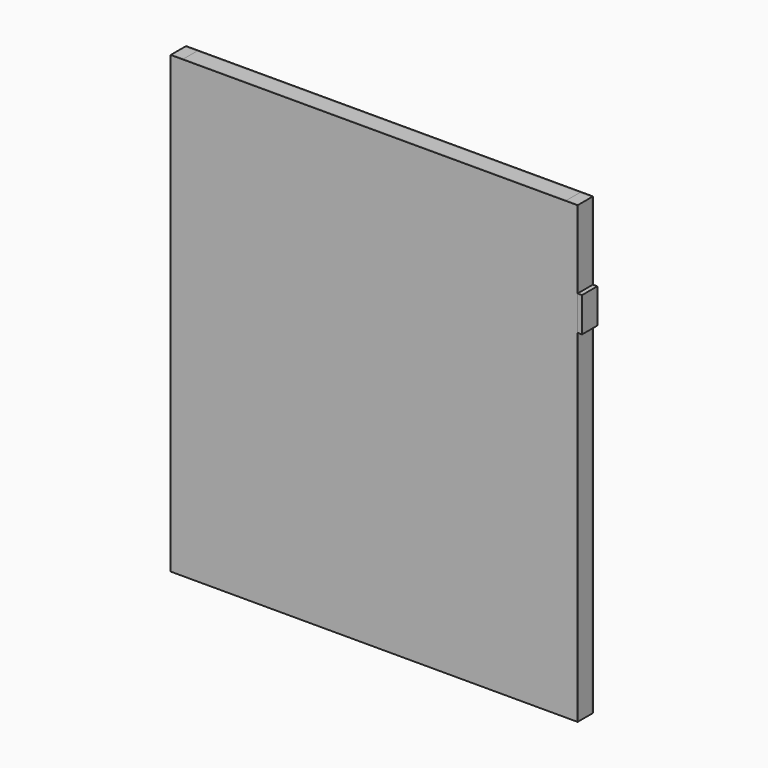
from build123d import *

# Parameters (mm, degrees)
F0_W     = 917
F0_H     = 1025
F1_DEPTH = 43.25
F2_DEPTH = 2.81
F3_DEPTH = 2.81
F4_W     = 10
F4_H     = 78
F5_DEPTH = 43
F7_DEPTH = 1025
F6_W     = 27
F6_H     = 37.63


with BuildPart() as f1:
    # F0 (on Front) → F1 (new body)
    with BuildSketch(Plane.XZ):
        Rectangle(F0_W, F0_H)
    extrude(amount=F1_DEPTH)


with BuildPart() as f2:
    # F2 (new): a face of the model
    f2_faces = [f1.part.faces().sort_by_distance(p)[0] for p in [
        (0, -43.25, 0),
    ]]
    extrude(f2_faces, amount=-F2_DEPTH)


with BuildPart() as f3:
    # F3 (new): a face of the model
    f3_faces = [f1.part.faces().sort_by_distance(p)[0] for p in [
        (0, 0, 0),
    ]]
    extrude(f3_faces, amount=-F3_DEPTH)


with BuildPart() as f5:
    # F4 (on face) → F5 (new body)
    with BuildSketch(Plane.XZ.offset(43.25)):
        with Locations((463.5, 298.5)):
            Rectangle(F4_W, F4_H)
    extrude(amount=-F5_DEPTH)


with BuildPart() as f7:
    # F6 (on face) → F7 (new body, through all)
    with BuildSketch(Plane.XY.offset(512.5)):
        Polygon((-458.5, -2.81), (-458.5, -40.44), (-431.5, -40.2551144361), (-431.5, -2.81), align=None)
    extrude(amount=-F7_DEPTH)


with BuildPart() as f7b:
    # F6 (on face) → F7, piece 2 (new body, through all)
    with BuildSketch(Plane.XY.offset(512.5)):
        with Locations((445, -21.625)):
            Rectangle(F6_W, F6_H)
    extrude(amount=-F7_DEPTH)


solid = Compound([f1.part, f2.part, f3.part, f5.part, f7.part, f7b.part])
